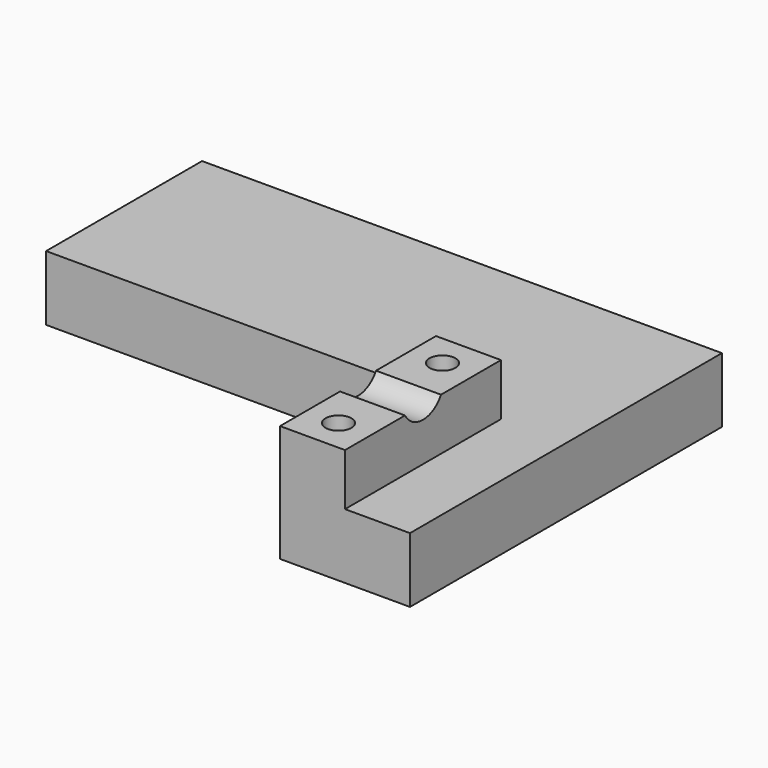
from build123d import *

# Parameters (mm, degrees)
PAD005_DEPTH    = 10
SKETCH009_W     = 10
SKETCH009_H     = 30
PAD006_DEPTH    = 8
SKETCH010_R     = 4
POCKET003_DEPTH = 10
SKETCH011_R     = 2
POCKET004_DEPTH = 20
SKETCH012_R     = 2
POCKET005_DEPTH = 20


with BuildPart() as part:
    # Sketch008 → Pad005 (new body)
    with BuildSketch(Plane(origin=(0, 0, 0), x_dir=(1, 0, 0), z_dir=(0, 0, -1))):
        Polygon((280, 160), (220, 160), (220, 130), (300, 130), (300, 190), (280, 190), align=None)
    extrude(amount=PAD005_DEPTH)

    # Sketch009 → Pad006 (new body)
    with BuildSketch(Plane.XY):
        with Locations((285, -175)):
            Rectangle(SKETCH009_W, SKETCH009_H)
    extrude(amount=PAD006_DEPTH)

    # Sketch010 → Pocket003 (cut)
    with BuildSketch(Plane(origin=(280, 0, 0), x_dir=(0, -1, 0), z_dir=(-1, 0, 0))):
        with Locations((175, 10)):
            Circle(SKETCH010_R)
    extrude(amount=-POCKET003_DEPTH, mode=Mode.SUBTRACT)

    # Sketch011 → Pocket004 (cut)
    with BuildSketch(Plane.XY.offset(8)):
        with Locations((285, -185)):
            Circle(SKETCH011_R)
    extrude(amount=-POCKET004_DEPTH, mode=Mode.SUBTRACT)

    # Sketch012 → Pocket005 (cut)
    with BuildSketch(Plane.XY.offset(8)):
        with Locations((285, -165)):
            Circle(SKETCH012_R)
    extrude(amount=-POCKET005_DEPTH, mode=Mode.SUBTRACT)


solid = part.part
